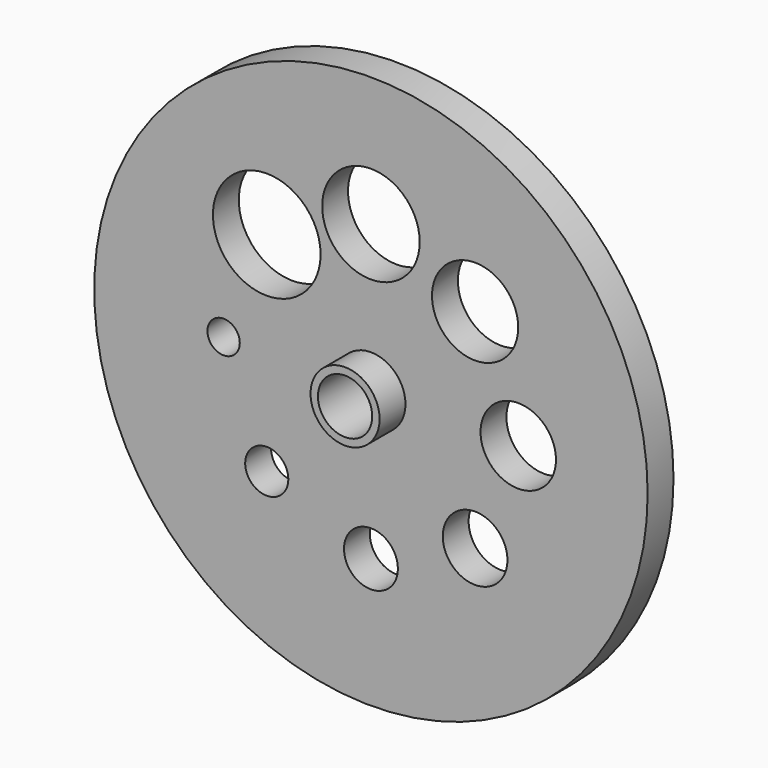
from build123d import *

# Parameters (mm, degrees)
F0_R      = 65.21802
F0_R_2    = 5.08
F0_R_3    = 6.35
F0_R_4    = 7.62
F0_R_5    = 3.81
F0_R_6    = 12.6873
F0_R_7    = 10.16
F0_R_8    = 8.89
F0_R_9    = 11.4935
F1_DEPTH  = 7.62
F2_R      = 8.138999
F2_R_2    = 6.4008
F3_DEPTH  = 15.24
F3_FACE_R = 6.4008
F4_DEPTH  = 5.08


with BuildPart() as f1:
    # F0 (on Front) → F1 (new body)
    with BuildSketch(Plane.XZ):
        Circle(F0_R)
        with Locations((-24.55202, -24.55202)):
            Circle(F0_R_2, mode=Mode.SUBTRACT)
        with Locations((0, -34.7218)):
            Circle(F0_R_3, mode=Mode.SUBTRACT)
        with Locations((24.55202, -24.55202)):
            Circle(F0_R_4, mode=Mode.SUBTRACT)
        with Locations((-34.7218, 0)):
            Circle(F0_R_5, mode=Mode.SUBTRACT)
        with Locations((-24.55202, 24.55202)):
            Circle(F0_R_6, mode=Mode.SUBTRACT)
        with Locations((24.55202, 24.55202)):
            Circle(F0_R_7, mode=Mode.SUBTRACT)
        with Locations((34.7218, 0)):
            Circle(F0_R_8, mode=Mode.SUBTRACT)
        with Locations((0, 34.7218)):
            Circle(F0_R_9, mode=Mode.SUBTRACT)
    extrude(amount=F1_DEPTH)

    # F2 (on Front) → F3 (join)
    with BuildSketch(Plane.XZ):
        Circle(F2_R)
        Circle(F2_R_2, mode=Mode.SUBTRACT)
    extrude(amount=F3_DEPTH)

    # F3_face (on face) → F4 (cut)
    with BuildSketch(Plane.XZ.offset(7.62)):
        Circle(F3_FACE_R)
    extrude(amount=-F4_DEPTH, mode=Mode.SUBTRACT)


solid = f1.part
